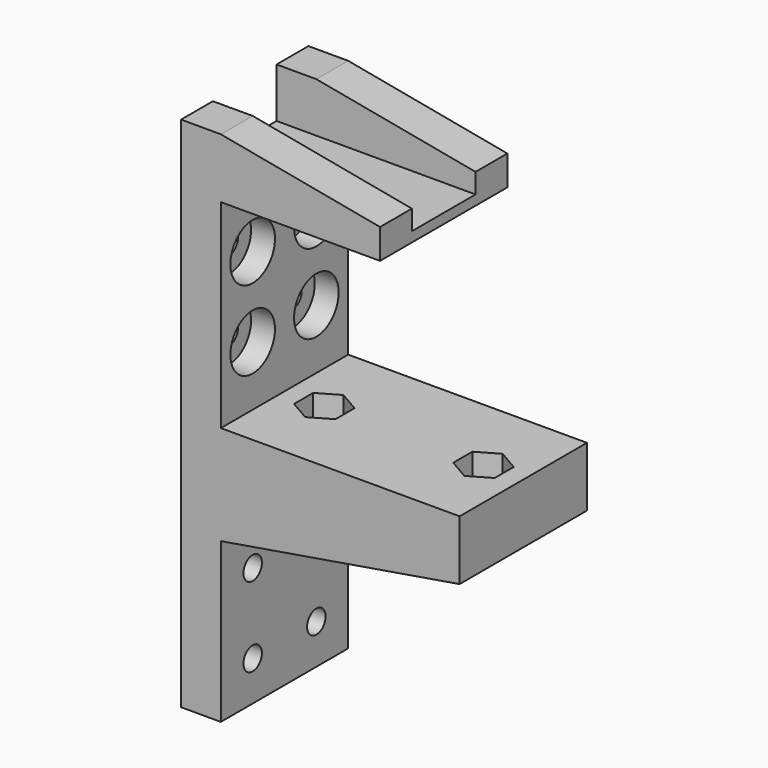
from build123d import *

# Parameters (mm, degrees)
F1_DEPTH      = 25.4
F2_W          = 25.4
F2_H          = 15.875
F3_DEPTH      = 12.701
F3_DEPTH_BACK = 76.201
F5_DEPTH      = 9.525
F6_R          = 3.683
F7_DEPTH      = 82.551
F8_W          = 25.4
F8_H          = 12.7
F9_DEPTH      = 76.201
F10_R         = 3.683
F11_DEPTH     = 12.701
F12_R         = 8.89
F13_DEPTH     = 7.62


with BuildPart() as f1:
    # F0 (on Front) → F1 (new body, symmetric)
    with BuildSketch(Plane.XZ):
        Polygon((76.2, 0), (0, 0), (0, 63.5), (50.8, 63.5), (50.8, 73.025), (0, 82.55), (-12.7, 82.55), (-12.7, -82.55), (0, -82.55), (0, -31.75), (76.2, -19.05), align=None)
    extrude(amount=F1_DEPTH, both=True)

    # F2 (on Right) → F3 (cut, two sides)
    with BuildSketch(Plane.YZ) as f3_sk:
        with Locations((0, 74.6125)):
            Rectangle(F2_W, F2_H)
    extrude(amount=-F3_DEPTH, mode=Mode.SUBTRACT)
    extrude(f3_sk.sketch, amount=F3_DEPTH_BACK, mode=Mode.SUBTRACT)

    # F4 (on Top) → F5 (cut)
    with BuildSketch(Plane.XY):
        Polygon((19.304, -3.8128211777), (19.304, 3.8128211777), (12.7, 7.6256423555), (6.096, 3.8128211777), (6.096, -3.8128211777), (12.7, -7.6256423555), align=None)
        Polygon((70.1092849155, 3.8036527495), (63.5105825496, 7.6256350124), (56.901297634, 3.821982263), (56.8907150845, -3.8036527495), (63.4894174504, -7.6256350124), (70.098702366, -3.821982263), align=None)
    extrude(amount=-F5_DEPTH, mode=Mode.SUBTRACT)

    # F6 (on Top) → F7 (cut, through all)
    with BuildSketch(Plane.XY):
        with Locations((12.7, 0)):
            Circle(F6_R)
        with Locations((63.5, 0)):
            Circle(F6_R)
    extrude(amount=-F7_DEPTH, mode=Mode.SUBTRACT)

    # F8 (on Right) → F9 (cut, through all)
    with BuildSketch(Plane.YZ):
        with Locations((0, -25.4)):
            Rectangle(F8_W, F8_H)
    extrude(amount=F9_DEPTH, mode=Mode.SUBTRACT)

    # F10 (on Right) → F11 (cut, through all)
    with BuildSketch(Plane.YZ):
        with Locations((-12.7, -44.45)):
            Circle(F10_R)
        with Locations((12.7, -44.45)):
            Circle(F10_R)
        with Locations((-12.7, -69.85)):
            Circle(F10_R)
        with Locations((12.7, -69.85)):
            Circle(F10_R)
        with Locations((-12.7, 19.05)):
            Circle(F10_R)
        with Locations((12.7, 19.05)):
            Circle(F10_R)
        with Locations((-12.7, 44.45)):
            Circle(F10_R)
        with Locations((12.7, 44.45)):
            Circle(F10_R)
    extrude(amount=-F11_DEPTH, mode=Mode.SUBTRACT)

    # F12 (on Right) → F13 (cut)
    with BuildSketch(Plane.YZ):
        with Locations((-12.7, 44.45)):
            Circle(F12_R)
        with Locations((12.7, 44.45)):
            Circle(F12_R)
        with Locations((-12.7, 19.05)):
            Circle(F12_R)
        with Locations((12.7, 19.05)):
            Circle(F12_R)
    extrude(amount=-F13_DEPTH, mode=Mode.SUBTRACT)


solid = f1.part
